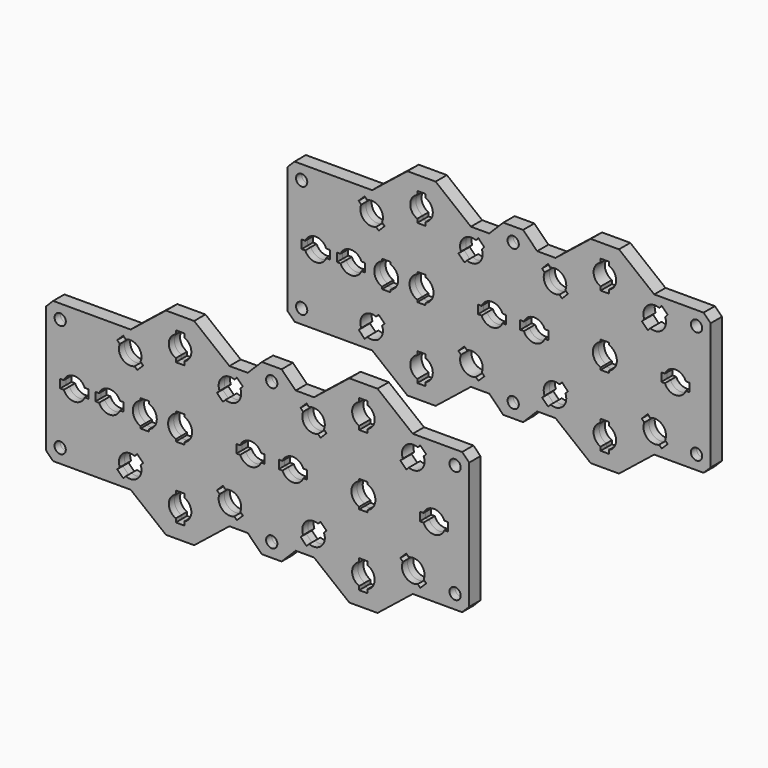
from build123d import *

# Parameters (mm, degrees)
F0_R     = 2
F0_R_2   = 4
F1_DEPTH = 2.5
F2_SIZE  = 2.5


with BuildPart() as f1:
    # F0 (on Front) → F1 (new body, symmetric)
    with BuildSketch(Plane.XZ):
        with BuildLine():
            Line((-68.436472863, 25), (-68.436472863, 0))
            Line((-68.436472863, 0), (-68.436472863, -25))
            Line((-68.436472863, -25), (-38.436472863, -25))
            Line((-38.436472863, -25), (-25.936472863, -35))
            Line((-25.936472863, -35), (-15.936472863, -35))
            Line((-15.936472863, -35), (-3.436472863, -25))
            Line((-3.436472863, -25), (3.063527137, -25))
            Line((3.063527137, -25), (9.563527137, -25))
            ThreePointArc((9.563527137, -25), (11.563527137, -23), (13.563527137, -25))
            Line((13.563527137, -25), (20.063527137, -25))
            Line((20.063527137, -25), (26.563527137, -25))
            Line((26.563527137, -25), (39.063527137, -35))
            Line((39.063527137, -35), (49.063527137, -35))
            Line((49.063527137, -35), (61.563527137, -25))
            Line((61.563527137, -25), (81.563527137, -25))
            Line((81.563527137, -25), (81.563527137, 0))
            Line((81.563527137, 0), (81.563527137, 25))
            Line((81.563527137, 25), (61.563527137, 25))
            Line((61.563527137, 25), (49.063527137, 35))
            Line((49.063527137, 35), (39.063527137, 35))
            Line((39.063527137, 35), (26.563527137, 25))
            Line((26.563527137, 25), (20.063527137, 25))
            Line((20.063527137, 25), (13.563527137, 25))
            ThreePointArc((13.563527137, 25), (11.563527137, 23), (9.563527137, 25))
            Line((9.563527137, 25), (3.063527137, 25))
            Line((3.063527137, 25), (-3.436472863, 25))
            Line((-3.436472863, 25), (-15.936472863, 35))
            Line((-15.936472863, 35), (-25.936472863, 35))
            Line((-25.936472863, 35), (-38.436472863, 25))
            Line((-38.436472863, 25), (-68.436472863, 25))
        make_face()
        with Locations((-63.436472863, -20)):
            Circle(F0_R, mode=Mode.SUBTRACT)
        with BuildLine():
            ThreePointArc((-34.9314601004, -16.116307581), (-34.6942744632, -16.8810294506), (-34.6141423926, -17.6776695297))
            ThreePointArc((-34.6141423926, -17.6776695297), (-36.4056868004, -21.012744326), (-40.1755043413, -21.3603518219))
            Line((-40.1755043413, -21.3603518219), (-41.0890161268, -22.2738636074))
            Line((-41.0890161268, -22.2738636074), (-43.2103364703, -20.1525432638))
            Line((-43.2103364703, -20.1525432638), (-42.2968246848, -19.2390314783))
            ThreePointArc((-42.2968246848, -19.2390314783), (-41.4425695174, -14.8492424049), (-37.052780444, -13.9949872375))
            Line((-37.052780444, -13.9949872375), (-36.1392686585, -13.081475452))
            Line((-36.1392686585, -13.081475452), (-34.0179483149, -15.2027957955))
            Line((-34.0179483149, -15.2027957955), (-34.9314601004, -16.116307581))
        make_face(mode=Mode.SUBTRACT)
        with BuildLine():
            ThreePointArc((-19.436472863, -21.2919007565), (-17.6198480726, -22.7639320225), (-16.936472863, -25))
            ThreePointArc((-16.936472863, -25), (-17.6198480726, -27.2360679775), (-19.436472863, -28.7080992435))
            Line((-19.436472863, -28.7080992435), (-19.436472863, -30))
            Line((-19.436472863, -30), (-22.436472863, -30))
            Line((-22.436472863, -30), (-22.436472863, -28.7080992435))
            ThreePointArc((-22.436472863, -28.7080992435), (-24.936472863, -25), (-22.436472863, -21.2919007565))
            Line((-22.436472863, -21.2919007565), (-22.436472863, -20))
            Line((-22.436472863, -20), (-19.436472863, -20))
            Line((-19.436472863, -20), (-19.436472863, -21.2919007565))
        make_face(mode=Mode.SUBTRACT)
        with BuildLine():
            ThreePointArc((-4.8201652819, -13.9949872375), (-1.0503477411, -14.3425947333), (0.7411966667, -17.6776695297))
            ThreePointArc((0.7411966667, -17.6776695297), (0.6610645962, -18.4743096087), (0.4238789589, -19.2390314783))
            Line((0.4238789589, -19.2390314783), (1.3373907444, -20.1525432638))
            Line((1.3373907444, -20.1525432638), (-0.7839295991, -22.2738636074))
            Line((-0.7839295991, -22.2738636074), (-1.6974413846, -21.3603518219))
            ThreePointArc((-1.6974413846, -21.3603518219), (-6.087230458, -20.5060966544), (-6.9414856255, -16.116307581))
            Line((-6.9414856255, -16.116307581), (-7.854997411, -15.2027957955))
            Line((-7.854997411, -15.2027957955), (-5.7336770674, -13.081475452))
            Line((-5.7336770674, -13.081475452), (-4.8201652819, -13.9949872375))
        make_face(mode=Mode.SUBTRACT)
        with BuildLine():
            ThreePointArc((30.0685398996, -16.116307581), (30.3057255368, -16.8810294506), (30.3858576074, -17.6776695297))
            ThreePointArc((30.3858576074, -17.6776695297), (28.5943131996, -21.012744326), (24.8244956587, -21.3603518219))
            Line((24.8244956587, -21.3603518219), (23.9109838732, -22.2738636074))
            Line((23.9109838732, -22.2738636074), (21.7896635297, -20.1525432638))
            Line((21.7896635297, -20.1525432638), (22.7031753152, -19.2390314783))
            ThreePointArc((22.7031753152, -19.2390314783), (23.5574304826, -14.8492424049), (27.947219556, -13.9949872375))
            Line((27.947219556, -13.9949872375), (28.8607313415, -13.081475452))
            Line((28.8607313415, -13.081475452), (30.9820516851, -15.2027957955))
            Line((30.9820516851, -15.2027957955), (30.0685398996, -16.116307581))
        make_face(mode=Mode.SUBTRACT)
        with BuildLine():
            ThreePointArc((45.563527137, -21.2919007565), (47.3801519274, -22.7639320225), (48.063527137, -25))
            ThreePointArc((48.063527137, -25), (47.3801519274, -27.2360679775), (45.563527137, -28.7080992435))
            Line((45.563527137, -28.7080992435), (45.563527137, -30))
            Line((45.563527137, -30), (42.563527137, -30))
            Line((42.563527137, -30), (42.563527137, -28.7080992435))
            ThreePointArc((42.563527137, -28.7080992435), (40.063527137, -25), (42.563527137, -21.2919007565))
            Line((42.563527137, -21.2919007565), (42.563527137, -20))
            Line((42.563527137, -20), (45.563527137, -20))
            Line((45.563527137, -20), (45.563527137, -21.2919007565))
        make_face(mode=Mode.SUBTRACT)
        with BuildLine():
            ThreePointArc((60.1798347181, -13.9949872375), (63.9496522589, -14.3425947333), (65.7411966667, -17.6776695297))
            ThreePointArc((65.7411966667, -17.6776695297), (65.6610645962, -18.4743096087), (65.4238789589, -19.2390314783))
            Line((65.4238789589, -19.2390314783), (66.3373907444, -20.1525432638))
            Line((66.3373907444, -20.1525432638), (64.2160704009, -22.2738636074))
            Line((64.2160704009, -22.2738636074), (63.3025586154, -21.3603518219))
            ThreePointArc((63.3025586154, -21.3603518219), (58.912769542, -20.5060966544), (58.0585143745, -16.116307581))
            Line((58.0585143745, -16.116307581), (57.145002589, -15.2027957955))
            Line((57.145002589, -15.2027957955), (59.2663229326, -13.081475452))
            Line((59.2663229326, -13.081475452), (60.1798347181, -13.9949872375))
        make_face(mode=Mode.SUBTRACT)
        with Locations((76.563527137, -20)):
            Circle(F0_R_2, mode=Mode.SUBTRACT)
        with BuildLine():
            ThreePointArc((-62.1445721065, 1.5), (-58.436472863, 4), (-54.7283736194, 1.5))
            Line((-54.7283736194, 1.5), (-53.436472863, 1.5))
            Line((-53.436472863, 1.5), (-53.436472863, -1.5))
            Line((-53.436472863, -1.5), (-54.7283736194, -1.5))
            ThreePointArc((-54.7283736194, -1.5), (-58.436472863, -4), (-62.1445721065, -1.5))
            Line((-62.1445721065, -1.5), (-63.436472863, -1.5))
            Line((-63.436472863, -1.5), (-63.436472863, 1.5))
            Line((-63.436472863, 1.5), (-62.1445721065, 1.5))
        make_face(mode=Mode.SUBTRACT)
        with BuildLine():
            ThreePointArc((-49.6445721065, 1.5), (-45.936472863, 4), (-42.2283736194, 1.5))
            Line((-42.2283736194, 1.5), (-40.936472863, 1.5))
            Line((-40.936472863, 1.5), (-40.936472863, -1.5))
            Line((-40.936472863, -1.5), (-42.2283736194, -1.5))
            ThreePointArc((-42.2283736194, -1.5), (-45.936472863, -4), (-49.6445721065, -1.5))
            Line((-49.6445721065, -1.5), (-50.936472863, -1.5))
            Line((-50.936472863, -1.5), (-50.936472863, 1.5))
            Line((-50.936472863, 1.5), (-49.6445721065, 1.5))
        make_face(mode=Mode.SUBTRACT)
        with BuildLine():
            ThreePointArc((-31.936472863, 3.9764934301), (-29.9409399994, 2.4173849507), (-29.186472863, 0))
            ThreePointArc((-29.186472863, 0), (-29.9409399994, -2.4173849507), (-31.936472863, -3.9764934301))
            Line((-31.936472863, -3.9764934301), (-31.936472863, -4.75))
            Line((-31.936472863, -4.75), (-34.936472863, -4.75))
            Line((-34.936472863, -4.75), (-34.936472863, -3.9764934301))
            ThreePointArc((-34.936472863, -3.9764934301), (-37.686472863, 0), (-34.936472863, 3.9764934301))
            Line((-34.936472863, 3.9764934301), (-34.936472863, 4.75))
            Line((-34.936472863, 4.75), (-31.936472863, 4.75))
            Line((-31.936472863, 4.75), (-31.936472863, 3.9764934301))
        make_face(mode=Mode.SUBTRACT)
        with BuildLine():
            ThreePointArc((-19.436472863, 3.9764934301), (-17.4409399994, 2.4173849507), (-16.686472863, 0))
            ThreePointArc((-16.686472863, 0), (-17.4409399994, -2.4173849507), (-19.436472863, -3.9764934301))
            Line((-19.436472863, -3.9764934301), (-19.436472863, -4.75))
            Line((-19.436472863, -4.75), (-22.436472863, -4.75))
            Line((-22.436472863, -4.75), (-22.436472863, -3.9764934301))
            ThreePointArc((-22.436472863, -3.9764934301), (-25.186472863, 0), (-22.436472863, 3.9764934301))
            Line((-22.436472863, 3.9764934301), (-22.436472863, 4.75))
            Line((-22.436472863, 4.75), (-19.436472863, 4.75))
            Line((-19.436472863, 4.75), (-19.436472863, 3.9764934301))
        make_face(mode=Mode.SUBTRACT)
        with BuildLine():
            ThreePointArc((0.3554278935, 1.5), (4.063527137, 4), (7.7716263806, 1.5))
            Line((7.7716263806, 1.5), (9.063527137, 1.5))
            Line((9.063527137, 1.5), (9.063527137, -1.5))
            Line((9.063527137, -1.5), (7.7716263806, -1.5))
            ThreePointArc((7.7716263806, -1.5), (4.063527137, -4), (0.3554278935, -1.5))
            Line((0.3554278935, -1.5), (-0.936472863, -1.5))
            Line((-0.936472863, -1.5), (-0.936472863, 1.5))
            Line((-0.936472863, 1.5), (0.3554278935, 1.5))
        make_face(mode=Mode.SUBTRACT)
        with Locations((-63.436472863, 20)):
            Circle(F0_R, mode=Mode.SUBTRACT)
        with BuildLine():
            ThreePointArc((-40.1755043413, 21.3603518219), (-36.4056868004, 21.012744326), (-34.6141423926, 17.6776695297))
            ThreePointArc((-34.6141423926, 17.6776695297), (-34.6942744632, 16.8810294506), (-34.9314601004, 16.116307581))
            Line((-34.9314601004, 16.116307581), (-34.0179483149, 15.2027957955))
            Line((-34.0179483149, 15.2027957955), (-36.1392686585, 13.081475452))
            Line((-36.1392686585, 13.081475452), (-37.052780444, 13.9949872375))
            ThreePointArc((-37.052780444, 13.9949872375), (-41.4425695174, 14.8492424049), (-42.2968246848, 19.2390314783))
            Line((-42.2968246848, 19.2390314783), (-43.2103364703, 20.1525432638))
            Line((-43.2103364703, 20.1525432638), (-41.0890161268, 22.2738636074))
            Line((-41.0890161268, 22.2738636074), (-40.1755043413, 21.3603518219))
        make_face(mode=Mode.SUBTRACT)
        with BuildLine():
            ThreePointArc((-19.436472863, 28.7080992435), (-17.6198480726, 27.2360679775), (-16.936472863, 25))
            ThreePointArc((-16.936472863, 25), (-17.6198480726, 22.7639320225), (-19.436472863, 21.2919007565))
            Line((-19.436472863, 21.2919007565), (-19.436472863, 20))
            Line((-19.436472863, 20), (-22.436472863, 20))
            Line((-22.436472863, 20), (-22.436472863, 21.2919007565))
            ThreePointArc((-22.436472863, 21.2919007565), (-24.936472863, 25), (-22.436472863, 28.7080992435))
            Line((-22.436472863, 28.7080992435), (-22.436472863, 30))
            Line((-22.436472863, 30), (-19.436472863, 30))
            Line((-19.436472863, 30), (-19.436472863, 28.7080992435))
        make_face(mode=Mode.SUBTRACT)
        with BuildLine():
            ThreePointArc((0.4238789589, 19.2390314783), (0.6610645962, 18.4743096087), (0.7411966667, 17.6776695297))
            ThreePointArc((0.7411966667, 17.6776695297), (-1.0503477411, 14.3425947333), (-4.8201652819, 13.9949872375))
            Line((-4.8201652819, 13.9949872375), (-5.7336770674, 13.081475452))
            Line((-5.7336770674, 13.081475452), (-7.854997411, 15.2027957955))
            Line((-7.854997411, 15.2027957955), (-6.9414856255, 16.116307581))
            ThreePointArc((-6.9414856255, 16.116307581), (-6.087230458, 20.5060966544), (-1.6974413846, 21.3603518219))
            Line((-1.6974413846, 21.3603518219), (-0.7839295991, 22.2738636074))
            Line((-0.7839295991, 22.2738636074), (1.3373907444, 20.1525432638))
            Line((1.3373907444, 20.1525432638), (0.4238789589, 19.2390314783))
        make_face(mode=Mode.SUBTRACT)
        with BuildLine():
            ThreePointArc((15.3554278935, 1.5), (19.063527137, 4), (22.7716263806, 1.5))
            Line((22.7716263806, 1.5), (24.063527137, 1.5))
            Line((24.063527137, 1.5), (24.063527137, -1.5))
            Line((24.063527137, -1.5), (22.7716263806, -1.5))
            ThreePointArc((22.7716263806, -1.5), (19.063527137, -4), (15.3554278935, -1.5))
            Line((15.3554278935, -1.5), (14.063527137, -1.5))
            Line((14.063527137, -1.5), (14.063527137, 1.5))
            Line((14.063527137, 1.5), (15.3554278935, 1.5))
        make_face(mode=Mode.SUBTRACT)
        with BuildLine():
            ThreePointArc((45.563527137, 3.9764934301), (47.5590600006, 2.4173849507), (48.313527137, 0))
            ThreePointArc((48.313527137, 0), (47.5590600006, -2.4173849507), (45.563527137, -3.9764934301))
            Line((45.563527137, -3.9764934301), (45.563527137, -4.75))
            Line((45.563527137, -4.75), (42.563527137, -4.75))
            Line((42.563527137, -4.75), (42.563527137, -3.9764934301))
            ThreePointArc((42.563527137, -3.9764934301), (39.813527137, 0), (42.563527137, 3.9764934301))
            Line((42.563527137, 3.9764934301), (42.563527137, 4.75))
            Line((42.563527137, 4.75), (45.563527137, 4.75))
            Line((45.563527137, 4.75), (45.563527137, 3.9764934301))
        make_face(mode=Mode.SUBTRACT)
        with BuildLine():
            ThreePointArc((65.3554278935, 1.5), (69.063527137, 4), (72.7716263806, 1.5))
            Line((72.7716263806, 1.5), (74.063527137, 1.5))
            Line((74.063527137, 1.5), (74.063527137, -1.5))
            Line((74.063527137, -1.5), (72.7716263806, -1.5))
            ThreePointArc((72.7716263806, -1.5), (69.063527137, -4), (65.3554278935, -1.5))
            Line((65.3554278935, -1.5), (64.063527137, -1.5))
            Line((64.063527137, -1.5), (64.063527137, 1.5))
            Line((64.063527137, 1.5), (65.3554278935, 1.5))
        make_face(mode=Mode.SUBTRACT)
        with BuildLine():
            ThreePointArc((24.8244956587, 21.3603518219), (28.5943131996, 21.012744326), (30.3858576074, 17.6776695297))
            ThreePointArc((30.3858576074, 17.6776695297), (30.3057255368, 16.8810294506), (30.0685398996, 16.116307581))
            Line((30.0685398996, 16.116307581), (30.9820516851, 15.2027957955))
            Line((30.9820516851, 15.2027957955), (28.8607313415, 13.081475452))
            Line((28.8607313415, 13.081475452), (27.947219556, 13.9949872375))
            ThreePointArc((27.947219556, 13.9949872375), (23.5574304826, 14.8492424049), (22.7031753152, 19.2390314783))
            Line((22.7031753152, 19.2390314783), (21.7896635297, 20.1525432638))
            Line((21.7896635297, 20.1525432638), (23.9109838732, 22.2738636074))
            Line((23.9109838732, 22.2738636074), (24.8244956587, 21.3603518219))
        make_face(mode=Mode.SUBTRACT)
        with BuildLine():
            ThreePointArc((65.4238789589, 19.2390314783), (65.6610645962, 18.4743096087), (65.7411966667, 17.6776695297))
            ThreePointArc((65.7411966667, 17.6776695297), (63.9496522589, 14.3425947333), (60.1798347181, 13.9949872375))
            Line((60.1798347181, 13.9949872375), (59.2663229326, 13.081475452))
            Line((59.2663229326, 13.081475452), (57.145002589, 15.2027957955))
            Line((57.145002589, 15.2027957955), (58.0585143745, 16.116307581))
            ThreePointArc((58.0585143745, 16.116307581), (58.912769542, 20.5060966544), (63.3025586154, 21.3603518219))
            Line((63.3025586154, 21.3603518219), (64.2160704009, 22.2738636074))
            Line((64.2160704009, 22.2738636074), (66.3373907444, 20.1525432638))
            Line((66.3373907444, 20.1525432638), (65.4238789589, 19.2390314783))
        make_face(mode=Mode.SUBTRACT)
        with BuildLine():
            ThreePointArc((45.563527137, 28.7080992435), (47.3801519274, 27.2360679775), (48.063527137, 25))
            ThreePointArc((48.063527137, 25), (47.3801519274, 22.7639320225), (45.563527137, 21.2919007565))
            Line((45.563527137, 21.2919007565), (45.563527137, 20))
            Line((45.563527137, 20), (42.563527137, 20))
            Line((42.563527137, 20), (42.563527137, 21.2919007565))
            ThreePointArc((42.563527137, 21.2919007565), (40.063527137, 25), (42.563527137, 28.7080992435))
            Line((42.563527137, 28.7080992435), (42.563527137, 30))
            Line((42.563527137, 30), (45.563527137, 30))
            Line((45.563527137, 30), (45.563527137, 28.7080992435))
        make_face(mode=Mode.SUBTRACT)
        with Locations((76.563527137, 20)):
            Circle(F0_R_2, mode=Mode.SUBTRACT)
        with BuildLine():
            Line((8.063527137, 30), (3.063527137, 25))
            Line((3.063527137, 25), (9.563527137, 25))
            ThreePointArc((9.563527137, 25), (11.563527137, 27), (13.563527137, 25))
            Line((13.563527137, 25), (20.063527137, 25))
            Line((20.063527137, 25), (15.063527137, 30))
            Line((15.063527137, 30), (8.063527137, 30))
        make_face()
        with BuildLine():
            Line((9.563527137, -25), (3.063527137, -25))
            Line((3.063527137, -25), (8.063527137, -30))
            Line((8.063527137, -30), (15.063527137, -30))
            Line((15.063527137, -30), (20.063527137, -25))
            Line((20.063527137, -25), (13.563527137, -25))
            ThreePointArc((13.563527137, -25), (11.563527137, -27), (9.563527137, -25))
        make_face()
        with Locations((76.563527137, 20)):
            Circle(F0_R_2)
        with Locations((76.563527137, 20)):
            Circle(F0_R, mode=Mode.SUBTRACT)
        with Locations((76.563527137, -20)):
            Circle(F0_R_2)
        with Locations((76.563527137, -20)):
            Circle(F0_R, mode=Mode.SUBTRACT)
    extrude(amount=F1_DEPTH, both=True)

    # F2
    f2_edges = [f1.edges().sort_by_distance(p)[0] for p in [
        (81.563527, 1.25, 25),
        (81.563527, -1.25, 25),
        (81.563527, 1.25, -25),
        (81.563527, -1.25, -25),
        (-68.436473, 1.25, 25),
        (-68.436473, -1.25, 25),
        (-68.436473, 1.25, -25),
        (-68.436473, -1.25, -25),
    ]]
    chamfer(f2_edges, length=F2_SIZE)


with BuildPart() as f4_1:
    # F4: instance of F1
    add(f1.part.mirror(Plane(origin=(7.3775705083, 53.5, 0), x_dir=(1, 0, 0), z_dir=(0, 1, 0))))


solid = Compound([f1.part, f4_1.part])
